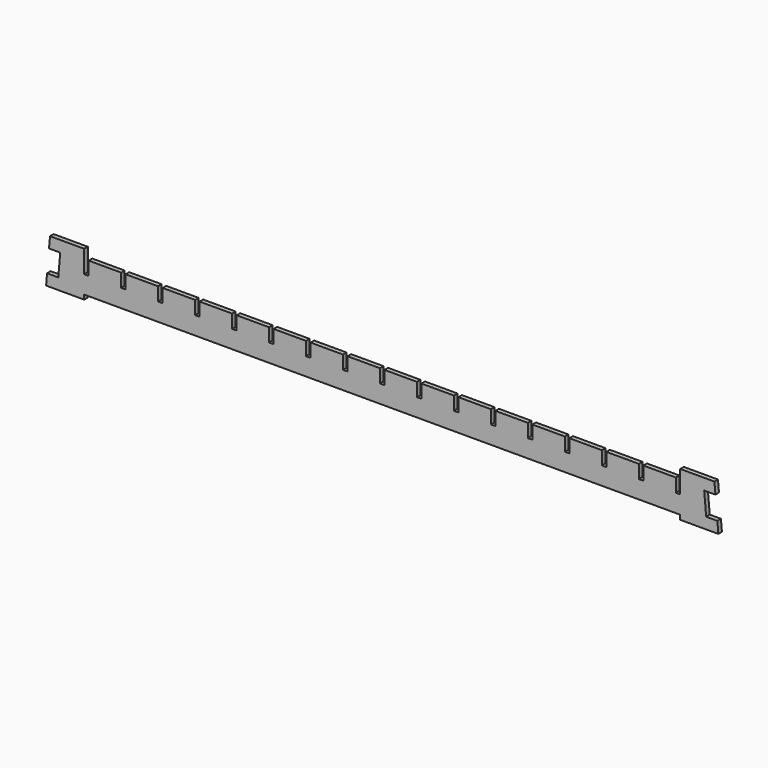
from build123d import *

# Parameters (mm, degrees)
F1_DEPTH = 2


with BuildPart() as f1:
    # F0 (on Front) → F1 (new body)
    with BuildSketch(Plane.XZ):
        Polygon((0.437443, 5), (0, 0), (17, 0), (17, 2), (283, 2), (283, 0), (300, 0), (299.562557, 5), (294.562557, 5), (293.68767, 15), (298.68767, 15), (298.250227, 20), (283, 20), (283, 10), (281, 10), (281, 16), (266.5, 16), (266.5, 10), (264.5, 10), (264.5, 16), (250, 16), (250, 10), (248, 10), (248, 16), (233.5, 16), (233.5, 10), (231.5, 10), (231.5, 16), (217, 16), (217, 10), (215, 10), (215, 16), (200.5, 16), (200.5, 10), (198.5, 10), (198.5, 16), (184, 16), (184, 10), (182, 10), (182, 16), (167.5, 16), (167.5, 10), (165.5, 10), (165.5, 16), (151, 16), (151, 10), (149, 10), (149, 16), (134.5, 16), (134.5, 10), (132.5, 10), (132.5, 16), (118, 16), (118, 10), (116, 10), (116, 16), (101.5, 16), (101.5, 10), (99.5, 10), (99.5, 16), (85, 16), (85, 10), (83, 10), (83, 16), (68.5, 16), (68.5, 10), (66.5, 10), (66.5, 16), (52, 16), (52, 10), (50, 10), (50, 16), (35.5, 16), (35.5, 10), (33.5, 10), (33.5, 16), (19, 16), (19, 10), (17, 10), (17, 20), (1.749773, 20), (1.31233, 15), (6.31233, 15), (5.437443, 5), align=None)
    extrude(amount=F1_DEPTH)


solid = f1.part
